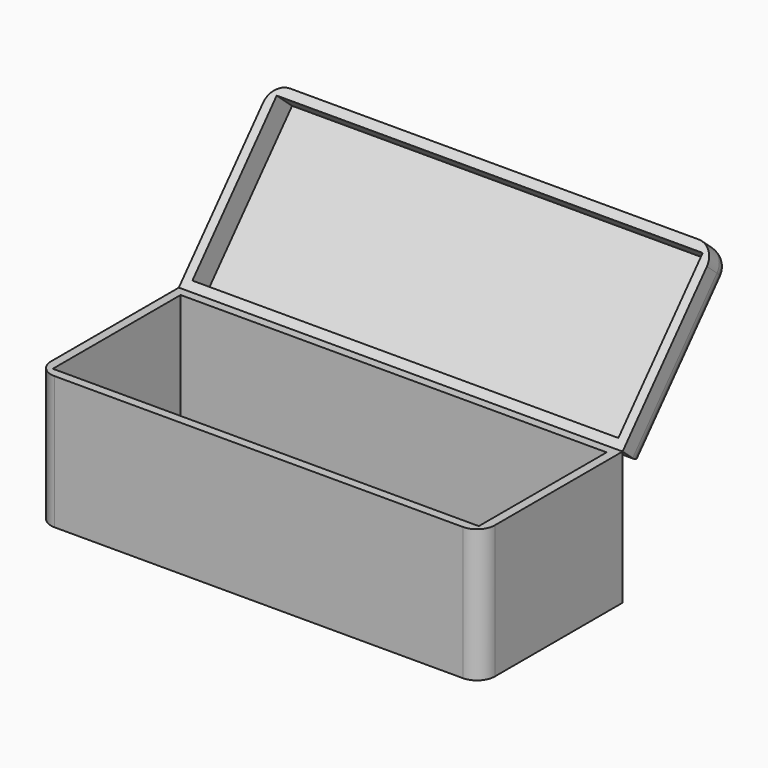
from build123d import *

# Parameters (mm, degrees)
F0_W     = 127
F0_H     = 50.8
F1_DEPTH = 38.1
F2_T     = -2.54
F4_DEPTH = 127
F5_T     = -2.54
F6_R     = 5.08
F6_2_R   = 5.08


with BuildPart() as f1:
    # F0 (on Top) → F1 (new body)
    with BuildSketch(Plane.XY):
        with Locations((-12.7, -7.7145)):
            Rectangle(F0_W, F0_H)
    extrude(amount=F1_DEPTH)

    # F2
    f2_openings = [f1.faces().sort_by_distance(p)[0] for p in [
        (-12.7, -7.7145, 38.1),
    ]]
    offset(amount=F2_T, openings=f2_openings)

    # F6
    f6_edges = [f1.edges().sort_by_distance(p)[0] for p in [
        (-76.2, -33.1145, 19.05),
        (50.8, -33.1145, 19.05),
    ]]
    fillet(f6_edges, radius=F6_R)


with BuildPart() as f4:
    # F3 (on face) → F4 (new body)
    with BuildSketch(Plane(origin=(-76.2, 0, 0), x_dir=(0, -1, 0), z_dir=(-1, 0, 0))):
        Polygon((-25.097251, 31.594272), (-17.6855, 38.1), (-51.197143, 76.278655), (-58.615548, 69.780508), align=None)
    extrude(amount=-F4_DEPTH)

    # F5
    f5_openings = [f4.faces().sort_by_distance(p)[0] for p in [
        (-12.7, 34.441321, 57.189328),
    ]]
    offset(amount=F5_T, openings=f5_openings)

    # F6#2
    f6_2_edges = [f4.edges().sort_by_distance(p)[0] for p in [
        (-12.7, 58.615548, 69.780508),
        (50.8, 41.856399, 50.68739),
        (50.8, 54.906346, 73.029582),
        (-76.2, 41.856399, 50.68739),
        (-76.2, 54.906346, 73.029582),
        (-12.7, 25.097251, 31.594272),
    ]]
    fillet(f6_2_edges, radius=F6_2_R)


solid = Compound([f1.part, f4.part])
